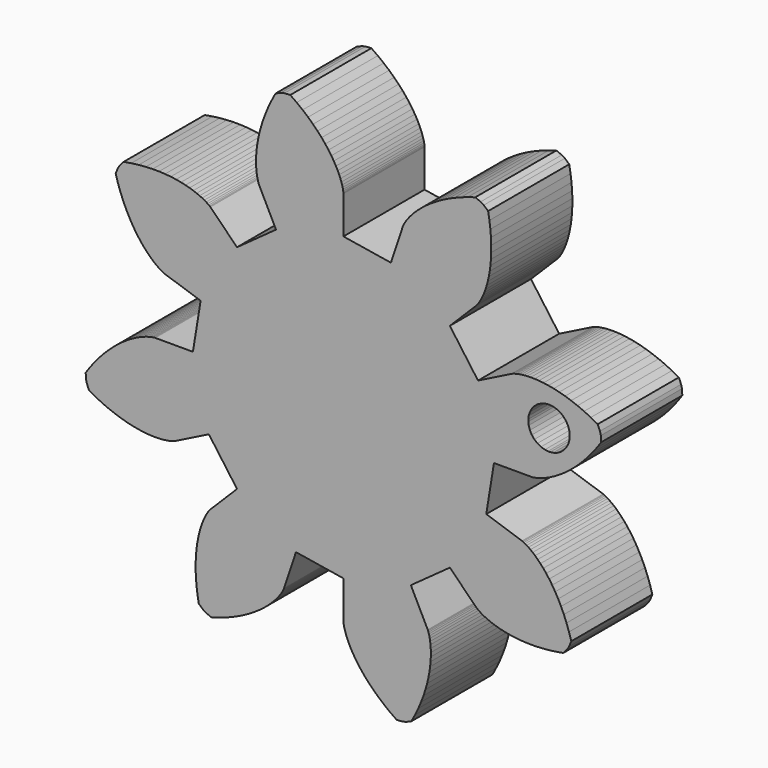
from build123d import *

# Parameters (mm, degrees)
F1_DEPTH = 25.4


with BuildPart() as f1:
    # F0 (on Front) → F1 (new body)
    with BuildSketch(Plane.XZ):
        Polygon((35.776586, -11.896674), (37.703176, 0.000178), (47.156548, 0.000178), (47.236304, 0.004242), (47.4075, 0.017958), (47.665056, 0.051232), (48.009734, 0.110414), (48.439756, 0.203886), (48.952328, 0.339014), (49.543386, 0.523672), (50.210136, 0.763448), (50.950292, 1.06647), (51.756488, 1.438834), (52.626184, 1.886636), (53.553538, 2.417242), (54.533216, 3.035732), (55.556836, 3.746932), (56.622366, 4.555922), (57.719138, 5.46956), (58.841056, 6.48937), (59.98177, 7.620686), (61.133914, 8.866556), (62.287582, 10.230536), (63.435154, 11.713388), (64.569264, 13.318922), (64.475792, 14.771294), (64.263448, 15.668422), (63.697282, 17.010558), (61.963732, 17.938166), (60.272854, 18.749442), (58.629982, 19.452514), (57.044006, 20.050684), (55.517212, 20.55081), (54.056204, 20.960004), (52.666062, 21.285378), (51.352628, 21.532012), (50.116664, 21.709812), (48.96452, 21.824112), (47.89772, 21.88177), (46.919566, 21.89447), (46.031836, 21.86526), (45.2358, 21.805062), (44.531204, 21.720734), (43.919572, 21.62015), (43.401412, 21.511438), (42.975454, 21.402472), (42.640682, 21.301888), (42.395572, 21.216544), (42.237076, 21.153044), (42.162654, 21.11977), (33.711058, 16.886606), (26.65951, 26.65951), (33.344536, 33.344536), (33.399654, 33.403972), (33.508366, 33.534782), (33.668386, 33.740014), (33.869554, 34.026526), (34.10806, 34.397366), (34.373998, 34.85482), (34.662034, 35.403206), (34.965056, 36.044048), (35.272142, 36.78141), (35.579482, 37.615038), (35.878694, 38.54671), (36.158348, 39.577442), (36.413364, 40.705964), (36.63536, 41.9338), (36.8157, 43.259426), (36.94651, 44.680048), (37.018392, 46.19592), (37.02525, 47.802978), (36.957686, 49.49792), (36.810366, 51.278206), (36.573384, 53.138756), (36.239882, 55.076014), (35.14565, 56.036642), (34.361298, 56.520258), (33.012304, 57.068898), (31.131434, 56.49816), (29.361816, 55.876876), (27.704212, 55.212666), (26.15786, 54.513912), (24.724792, 53.787726), (23.40196, 53.044776), (22.190634, 52.291158), (21.085734, 51.537286), (20.087514, 50.789256), (19.19191, 50.054688), (18.39562, 49.341964), (17.696866, 48.658704), (17.088028, 48.011004), (16.568344, 47.404706), (16.130194, 46.846414), (15.769006, 46.343494), (15.478176, 45.901026), (15.253386, 45.522312), (15.088286, 45.213448), (14.975256, 44.97926), (14.909216, 44.822288), (14.88026, 44.747866), (11.896776, 35.776586), (0.000178, 37.703176), (0.000178, 47.156548), (-0.00414, 47.236304), (-0.017856, 47.4075), (-0.05113, 47.665056), (-0.110058, 48.009734), (-0.203784, 48.439756), (-0.338912, 48.952328), (-0.523316, 49.543386), (-0.763346, 50.210136), (-1.066368, 50.950292), (-1.438478, 51.756488), (-1.886534, 52.626184), (-2.41714, 53.553538), (-3.03563, 54.533216), (-3.74683, 55.556836), (-4.555566, 56.622366), (-5.469458, 57.719138), (-6.489268, 58.841056), (-7.620584, 59.98177), (-8.8662, 61.133914), (-10.230434, 62.287582), (-11.713286, 63.435154), (-13.318566, 64.569264), (-14.771192, 64.475792), (-15.668066, 64.263448), (-17.010456, 63.697282), (-17.938064, 61.963732), (-18.74934, 60.272854), (-19.452412, 58.629982), (-20.050328, 57.044006), (-20.550708, 55.517212), (-20.959902, 54.056204), (-21.285022, 52.666062), (-21.531656, 51.352628), (-21.709456, 50.116664), (-21.823756, 48.96452), (-21.881668, 47.89772), (-21.894114, 46.919566), (-21.865158, 46.031836), (-21.804706, 45.2358), (-21.720378, 44.531204), (-21.619794, 43.919572), (-21.511336, 43.401412), (-21.402116, 42.975454), (-21.301786, 42.640682), (-21.216188, 42.395572), (-21.152688, 42.237076), (-21.119668, 42.162654), (-16.88625, 33.711058), (-26.659408, 26.65951), (-33.34418, 33.344536), (-33.403616, 33.399654), (-33.534426, 33.508366), (-33.739912, 33.668386), (-34.026424, 33.869554), (-34.39701, 34.10806), (-34.854718, 34.373998), (-35.403104, 34.662034), (-36.043946, 34.965056), (-36.781054, 35.272142), (-37.614936, 35.579482), (-38.546354, 35.878694), (-39.577086, 36.158348), (-40.705862, 36.413364), (-41.933622, 36.63536), (-43.259273, 36.8157), (-44.680022, 36.94651), (-46.195869, 37.018392), (-47.802673, 37.02525), (-49.497666, 36.957686), (-51.278104, 36.810366), (-53.138426, 36.573384), (-55.075963, 36.239882), (-56.036439, 35.14565), (-56.520131, 34.361298), (-57.068593, 33.012304), (-56.498084, 31.131434), (-55.876596, 29.361816), (-55.212386, 27.704212), (-54.513709, 26.15786), (-53.787472, 24.724792), (-53.04475, 23.40196), (-52.290955, 22.190634), (-51.537133, 21.085734), (-50.788875, 20.087514), (-50.054383, 19.19191), (-49.341938, 18.39562), (-48.65845, 17.696866), (-48.01075, 17.088028), (-47.404426, 16.568344), (-46.846338, 16.130194), (-46.343341, 15.769006), (-45.900975, 15.478176), (-45.522032, 15.253386), (-45.213346, 15.088286), (-44.979082, 14.975256), (-44.821983, 14.909216), (-44.747536, 14.88026), (-35.776484, 11.896776), (-37.703074, 0.000178), (-47.156395, 0.000178), (-47.236278, -0.00414), (-47.40717, -0.017856), (-47.664878, -0.05113), (-48.009353, -0.110058), (-48.439324, -0.203784), (-48.951947, -0.338912), (-49.543132, -0.523316), (-50.210085, -0.763346), (-50.950114, -1.066368), (-51.756259, -1.438478), (-52.625803, -1.886534), (-53.553233, -2.41714), (-54.533013, -3.03563), (-55.556912, -3.74683), (-56.622112, -4.555566), (-57.719036, -5.469458), (-58.840776, -6.489268), (-59.98177, -7.620584), (-61.133838, -8.8662), (-62.287226, -10.230434), (-63.435128, -11.713286), (-64.569264, -13.318566), (-64.475563, -14.771192), (-64.263346, -15.668066), (-63.696977, -17.010456), (-61.963376, -17.938064), (-60.272549, -18.74934), (-58.629906, -19.452412), (-57.043803, -20.050328), (-55.516932, -20.550708), (-54.056229, -20.959902), (-52.665782, -21.285022), (-51.352501, -21.531656), (-50.11641, -21.709456), (-48.964367, -21.823756), (-47.897745, -21.881668), (-46.919363, -21.894114), (-46.031912, -21.865158), (-45.235393, -21.804706), (-44.531229, -21.720378), (-43.919369, -21.619794), (-43.401209, -21.511336), (-42.975403, -21.402116), (-42.640555, -21.301786), (-42.395267, -21.216188), (-42.236796, -21.152688), (-42.162349, -21.119668), (-33.710956, -16.88625), (-26.659408, -26.659408), (-33.34418, -33.34418), (-33.399298, -33.403616), (-33.508264, -33.534426), (-33.66803, -33.739912), (-33.869198, -34.026424), (-34.107704, -34.39701), (-34.373642, -34.854718), (-34.661678, -35.403104), (-34.964954, -36.043946), (-35.272294, -36.781054), (-35.57938, -37.614936), (-35.878592, -38.546354), (-36.158246, -39.577086), (-36.413262, -40.705862), (-36.635004, -41.933622), (-36.815598, -43.259273), (-36.946408, -44.680022), (-37.018036, -46.195869), (-37.025148, -47.802673), (-36.957584, -49.497666), (-36.81001, -51.278104), (-36.573028, -53.138426), (-36.239526, -55.075963), (-35.145294, -56.036439), (-34.361196, -56.520131), (-33.012202, -57.068593), (-31.131078, -56.498084), (-29.361714, -55.876596), (-27.703856, -55.212386), (-26.157758, -54.513709), (-24.72469, -53.787472), (-23.401858, -53.04475), (-22.190278, -52.290955), (-21.085378, -51.537133), (-20.087412, -50.788875), (-19.191808, -50.054383), (-18.395518, -49.341938), (-17.696764, -48.65845), (-17.087418, -48.01075), (-16.567988, -47.404426), (-16.130092, -46.846338), (-15.76865, -46.343341), (-15.478074, -45.900975), (-15.253284, -45.522032), (-15.088184, -45.213346), (-14.9749, -44.979082), (-14.909114, -44.821983), (-14.880158, -44.747536), (-11.896674, -35.776484), (0.000178, -37.703074), (0.000178, -47.156395), (0.004242, -47.236278), (0.017958, -47.40717), (0.051232, -47.664878), (0.110414, -48.009353), (0.203886, -48.439324), (0.339014, -48.951947), (0.523672, -49.543132), (0.763448, -50.210085), (1.06647, -50.950114), (1.438834, -51.756259), (1.886636, -52.625803), (2.417242, -53.553233), (3.035732, -54.533013), (3.746932, -55.556912), (4.555922, -56.622112), (5.46956, -57.719036), (6.48937, -58.840776), (7.620686, -59.98177), (8.866556, -61.133838), (10.230536, -62.287226), (11.713388, -63.435128), (13.318922, -64.569264), (14.771294, -64.475563), (15.668422, -64.263346), (17.010558, -63.696977), (17.938166, -61.963376), (18.749442, -60.272549), (19.452514, -58.629906), (20.050684, -57.043803), (20.55081, -55.516932), (20.960004, -54.056229), (21.285378, -52.665782), (21.532012, -51.352501), (21.709812, -50.11641), (21.824112, -48.964367), (21.88177, -47.897745), (21.89447, -46.919363), (21.86526, -46.031912), (21.805062, -45.235393), (21.720734, -44.531229), (21.62015, -43.919369), (21.511438, -43.401209), (21.402472, -42.975403), (21.301888, -42.640555), (21.216544, -42.395267), (21.153044, -42.236796), (21.11977, -42.162349), (16.886606, -33.710956), (26.65951, -26.659408), (33.344536, -33.34418), (33.403972, -33.399298), (33.534782, -33.508264), (33.740014, -33.66803), (34.026526, -33.869198), (34.397366, -34.107704), (34.85482, -34.373642), (35.403206, -34.661678), (36.044048, -34.964954), (36.78141, -35.272294), (37.615038, -35.57938), (38.54671, -35.878592), (39.577442, -36.158246), (40.705964, -36.413262), (41.9338, -36.635004), (43.259426, -36.815598), (44.680048, -36.946408), (46.19592, -37.018036), (47.802978, -37.025148), (49.49792, -36.957584), (51.278206, -36.81001), (53.138756, -36.573028), (55.076014, -36.239526), (56.036642, -35.145294), (56.520258, -34.361196), (57.068898, -33.012202), (56.49816, -31.131078), (55.876876, -29.361714), (55.212666, -27.703856), (54.513912, -26.157758), (53.787726, -24.72469), (53.044776, -23.401858), (52.291158, -22.190278), (51.537286, -21.085378), (50.789256, -20.087412), (50.054688, -19.191808), (49.341964, -18.395518), (48.658704, -17.696764), (48.011004, -17.087418), (47.404706, -16.567988), (46.846414, -16.130092), (46.343494, -15.76865), (45.901026, -15.478074), (45.522312, -15.253284), (45.213448, -15.088184), (44.97926, -14.9749), (44.822288, -14.909114), (44.747866, -14.880158), align=None)
        Polygon((56.689676, 12.438304), (56.689676, 12.176684), (56.689676, 11.915826), (56.583758, 11.130458), (56.280482, 10.156114), (55.802454, 9.274226), (55.16847, 8.505114), (54.399612, 7.871638), (53.51747, 7.393356), (52.543126, 7.090334), (51.757758, 6.983908), (51.497408, 6.983908), (51.235534, 6.983908), (50.450166, 7.090334), (49.475822, 7.393356), (48.593934, 7.871638), (47.824822, 8.505114), (47.191092, 9.274226), (46.71281, 10.156114), (46.409788, 11.130458), (46.304886, 11.915826), (46.304886, 12.176684), (46.304886, 12.438304), (46.409788, 13.223672), (46.71281, 14.198016), (47.191092, 15.079904), (47.824822, 15.849016), (48.593934, 16.483), (49.475822, 16.961028), (50.450166, 17.264304), (51.235534, 17.368698), (51.497408, 17.368698), (51.757758, 17.368698), (52.543126, 17.264304), (53.51747, 16.961028), (54.399612, 16.483), (55.16847, 15.849016), (55.802454, 15.079904), (56.280482, 14.198016), (56.583758, 13.223672), align=None, mode=Mode.SUBTRACT)
    extrude(amount=F1_DEPTH)


solid = f1.part
